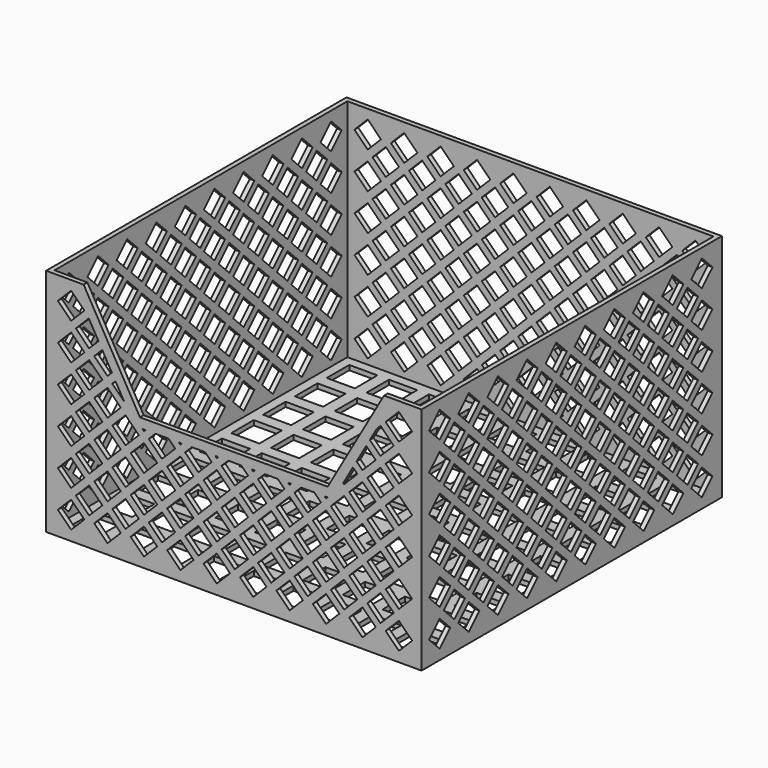
from build123d import *

# Parameters (mm, degrees)
F0_W      = 254
F0_H      = 254
F1_DEPTH  = 3.175
F2_W      = 254
F2_H      = 254
F2_W_2    = 247.65
F2_H_2    = 247.65
F3_DEPTH  = 152.4
F5_DEPTH  = 3.175
F7_DEPTH  = 254.001
F9_DEPTH  = 254.001
F11_DEPTH = 254.001
F13_DEPTH = 254.001
F15_DEPTH = 3.175
F16_W     = 19.05
F16_H     = 19.05
F17_DEPTH = 3.176


with BuildPart() as f1:
    # F0 (on Top) → F1 (new body)
    with BuildSketch(Plane.XY):
        Rectangle(F0_W, F0_H)
    extrude(amount=F1_DEPTH)

    # F2 (on face) → F3 (join)
    with BuildSketch(Plane.XY.offset(3.175)):
        Rectangle(F2_W, F2_H)
        Rectangle(F2_W_2, F2_H_2, mode=Mode.SUBTRACT)
    extrude(amount=F3_DEPTH)

    # F4 (on face) → F5 (cut, through all)
    with BuildSketch(Plane.XZ.offset(127)):
        Polygon((-63.5, 88.9), (0, 88.9), (63.5, 88.9), (101.6, 155.575), (0, 155.575), (-101.6, 155.575), align=None)
    extrude(amount=-F5_DEPTH, mode=Mode.SUBTRACT)

    # F6 (on face) → F7 (cut, through all)
    with BuildSketch(Plane.YZ.offset(127)):
        Polygon((-102.689488, 140.244744), (-111.669744, 149.225), (-120.65, 140.244744), (-111.669744, 131.264488), align=None)
        Polygon((-111.669744, 124.333), (-120.65, 115.352744), (-111.669744, 106.372488), (-102.689488, 115.352744), align=None)
        Polygon((-111.669744, 99.441), (-120.65, 90.460744), (-111.669744, 81.480488), (-102.689488, 90.460744), align=None)
        Polygon((-111.669744, 74.549), (-120.65, 65.568744), (-111.669744, 56.588488), (-102.689488, 65.568744), align=None)
        Polygon((-111.669744, 49.657), (-120.65, 40.676744), (-111.669744, 31.696488), (-102.689488, 40.676744), align=None)
        Polygon((-111.669744, 24.765), (-120.65, 15.784744), (-111.669744, 6.804488), (-102.689488, 15.784744), align=None)
        Polygon((-87.031744, 149.225), (-96.012, 140.244744), (-87.031744, 131.264488), (-78.051488, 140.244744), align=None)
        Polygon((-87.031744, 124.333), (-96.012, 115.352744), (-87.031744, 106.372488), (-78.051488, 115.352744), align=None)
        Polygon((-87.031744, 99.441), (-96.012, 90.460744), (-87.031744, 81.480488), (-78.051488, 90.460744), align=None)
        Polygon((-87.031744, 74.549), (-96.012, 65.568744), (-87.031744, 56.588488), (-78.051488, 65.568744), align=None)
        Polygon((-87.031744, 49.657), (-96.012, 40.676744), (-87.031744, 31.696488), (-78.051488, 40.676744), align=None)
        Polygon((-87.031744, 24.765), (-96.012, 15.784744), (-87.031744, 6.804488), (-78.051488, 15.784744), align=None)
        Polygon((-62.393744, 149.225), (-71.374, 140.244744), (-62.393744, 131.264488), (-53.413488, 140.244744), align=None)
        Polygon((-62.393744, 124.333), (-71.374, 115.352744), (-62.393744, 106.372488), (-53.413488, 115.352744), align=None)
        Polygon((-62.393744, 99.441), (-71.374, 90.460744), (-62.393744, 81.480488), (-53.413488, 90.460744), align=None)
        Polygon((-62.393744, 74.549), (-71.374, 65.568744), (-62.393744, 56.588488), (-53.413488, 65.568744), align=None)
        Polygon((-62.393744, 49.657), (-71.374, 40.676744), (-62.393744, 31.696488), (-53.413488, 40.676744), align=None)
        Polygon((-62.393744, 24.765), (-71.374, 15.784744), (-62.393744, 6.804488), (-53.413488, 15.784744), align=None)
        Polygon((-37.755744, 149.225), (-46.736, 140.244744), (-37.755744, 131.264488), (-28.775488, 140.244744), align=None)
        Polygon((-37.755744, 124.333), (-46.736, 115.352744), (-37.755744, 106.372488), (-28.775488, 115.352744), align=None)
        Polygon((-37.755744, 99.441), (-46.736, 90.460744), (-37.755744, 81.480488), (-28.775488, 90.460744), align=None)
        Polygon((-37.755744, 74.549), (-46.736, 65.568744), (-37.755744, 56.588488), (-28.775488, 65.568744), align=None)
        Polygon((-37.755744, 49.657), (-46.736, 40.676744), (-37.755744, 31.696488), (-28.775488, 40.676744), align=None)
        Polygon((-37.755744, 24.765), (-46.736, 15.784744), (-37.755744, 6.804488), (-28.775488, 15.784744), align=None)
        Polygon((-13.117744, 149.225), (-22.098, 140.244744), (-13.117744, 131.264488), (-4.137488, 140.244744), align=None)
        Polygon((-13.117744, 124.333), (-22.098, 115.352744), (-13.117744, 106.372488), (-4.137488, 115.352744), align=None)
        Polygon((-13.117744, 99.441), (-22.098, 90.460744), (-13.117744, 81.480488), (-4.137488, 90.460744), align=None)
        Polygon((-13.117744, 74.549), (-22.098, 65.568744), (-13.117744, 56.588488), (-4.137488, 65.568744), align=None)
        Polygon((-13.117744, 49.657), (-22.098, 40.676744), (-13.117744, 31.696488), (-4.137488, 40.676744), align=None)
        Polygon((-13.117744, 24.765), (-22.098, 15.784744), (-13.117744, 6.804488), (-4.137488, 15.784744), align=None)
        Polygon((11.520256, 149.225), (2.54, 140.244744), (11.520256, 131.264488), (20.500512, 140.244744), align=None)
        Polygon((11.520256, 124.333), (2.54, 115.352744), (11.520256, 106.372488), (20.500512, 115.352744), align=None)
        Polygon((11.520256, 99.441), (2.54, 90.460744), (11.520256, 81.480488), (20.500512, 90.460744), align=None)
        Polygon((11.520256, 74.549), (2.54, 65.568744), (11.520256, 56.588488), (20.500512, 65.568744), align=None)
        Polygon((11.520256, 49.657), (2.54, 40.676744), (11.520256, 31.696488), (20.500512, 40.676744), align=None)
        Polygon((11.520256, 24.765), (2.54, 15.784744), (11.520256, 6.804488), (20.500512, 15.784744), align=None)
        Polygon((36.158256, 149.225), (27.178, 140.244744), (36.158256, 131.264488), (45.138512, 140.244744), align=None)
        Polygon((36.158256, 124.333), (27.178, 115.352744), (36.158256, 106.372488), (45.138512, 115.352744), align=None)
        Polygon((36.158256, 99.441), (27.178, 90.460744), (36.158256, 81.480488), (45.138512, 90.460744), align=None)
        Polygon((36.158256, 74.549), (27.178, 65.568744), (36.158256, 56.588488), (45.138512, 65.568744), align=None)
        Polygon((36.158256, 49.657), (27.178, 40.676744), (36.158256, 31.696488), (45.138512, 40.676744), align=None)
        Polygon((36.158256, 24.765), (27.178, 15.784744), (36.158256, 6.804488), (45.138512, 15.784744), align=None)
        Polygon((60.796256, 149.225), (51.816, 140.244744), (60.796256, 131.264488), (69.776512, 140.244744), align=None)
        Polygon((60.796256, 124.333), (51.816, 115.352744), (60.796256, 106.372488), (69.776512, 115.352744), align=None)
        Polygon((60.796256, 99.441), (51.816, 90.460744), (60.796256, 81.480488), (69.776512, 90.460744), align=None)
        Polygon((60.796256, 74.549), (51.816, 65.568744), (60.796256, 56.588488), (69.776512, 65.568744), align=None)
        Polygon((60.796256, 49.657), (51.816, 40.676744), (60.796256, 31.696488), (69.776512, 40.676744), align=None)
        Polygon((60.796256, 24.765), (51.816, 15.784744), (60.796256, 6.804488), (69.776512, 15.784744), align=None)
        Polygon((85.434256, 149.225), (76.454, 140.244744), (85.434256, 131.264488), (94.414512, 140.244744), align=None)
        Polygon((85.434256, 124.333), (76.454, 115.352744), (85.434256, 106.372488), (94.414512, 115.352744), align=None)
        Polygon((85.434256, 99.441), (76.454, 90.460744), (85.434256, 81.480488), (94.414512, 90.460744), align=None)
        Polygon((85.434256, 74.549), (76.454, 65.568744), (85.434256, 56.588488), (94.414512, 65.568744), align=None)
        Polygon((85.434256, 49.657), (76.454, 40.676744), (85.434256, 31.696488), (94.414512, 40.676744), align=None)
        Polygon((85.434256, 24.765), (76.454, 15.784744), (85.434256, 6.804488), (94.414512, 15.784744), align=None)
        Polygon((110.072256, 149.225), (101.092, 140.244744), (110.072256, 131.264488), (119.052512, 140.244744), align=None)
        Polygon((110.072256, 124.333), (101.092, 115.352744), (110.072256, 106.372488), (119.052512, 115.352744), align=None)
        Polygon((110.072256, 99.441), (101.092, 90.460744), (110.072256, 81.480488), (119.052512, 90.460744), align=None)
        Polygon((110.072256, 74.549), (101.092, 65.568744), (110.072256, 56.588488), (119.052512, 65.568744), align=None)
        Polygon((110.072256, 49.657), (101.092, 40.676744), (110.072256, 31.696488), (119.052512, 40.676744), align=None)
        Polygon((110.072256, 24.765), (101.092, 15.784744), (110.072256, 6.804488), (119.052512, 15.784744), align=None)
    extrude(amount=-F7_DEPTH, mode=Mode.SUBTRACT)

    # F8 (on face) → F9 (cut, through all)
    with BuildSketch(Plane(origin=(0, 127, 0), x_dir=(-1, 0, 0), z_dir=(0, 1, 0))):
        Polygon((-90.243488, 127.798744), (-99.223744, 136.779), (-108.204, 127.798744), (-99.223744, 118.818488), align=None)
        Polygon((-99.223744, 93.926488), (-90.243488, 102.906744), (-99.223744, 111.887), (-108.204, 102.906744), align=None)
        Polygon((-99.223744, 69.034488), (-90.243488, 78.014744), (-99.223744, 86.995), (-108.204, 78.014744), align=None)
        Polygon((-99.223744, 44.142488), (-90.243488, 53.122744), (-99.223744, 62.103), (-108.204, 53.122744), align=None)
        Polygon((-99.223744, 19.250488), (-90.243488, 28.230744), (-99.223744, 37.211), (-108.204, 28.230744), align=None)
        Polygon((-74.585744, 118.818488), (-65.605488, 127.798744), (-74.585744, 136.779), (-83.566, 127.798744), align=None)
        Polygon((-74.585744, 93.926488), (-65.605488, 102.906744), (-74.585744, 111.887), (-83.566, 102.906744), align=None)
        Polygon((-74.585744, 69.034488), (-65.605488, 78.014744), (-74.585744, 86.995), (-83.566, 78.014744), align=None)
        Polygon((-74.585744, 44.142488), (-65.605488, 53.122744), (-74.585744, 62.103), (-83.566, 53.122744), align=None)
        Polygon((-74.585744, 19.250488), (-65.605488, 28.230744), (-74.585744, 37.211), (-83.566, 28.230744), align=None)
        Polygon((-49.947744, 118.818488), (-40.967488, 127.798744), (-49.947744, 136.779), (-58.928, 127.798744), align=None)
        Polygon((-49.947744, 93.926488), (-40.967488, 102.906744), (-49.947744, 111.887), (-58.928, 102.906744), align=None)
        Polygon((-49.947744, 69.034488), (-40.967488, 78.014744), (-49.947744, 86.995), (-58.928, 78.014744), align=None)
        Polygon((-49.947744, 44.142488), (-40.967488, 53.122744), (-49.947744, 62.103), (-58.928, 53.122744), align=None)
        Polygon((-49.947744, 19.250488), (-40.967488, 28.230744), (-49.947744, 37.211), (-58.928, 28.230744), align=None)
        Polygon((-25.309744, 118.818488), (-16.329488, 127.798744), (-25.309744, 136.779), (-34.29, 127.798744), align=None)
        Polygon((-25.309744, 93.926488), (-16.329488, 102.906744), (-25.309744, 111.887), (-34.29, 102.906744), align=None)
        Polygon((-25.309744, 69.034488), (-16.329488, 78.014744), (-25.309744, 86.995), (-34.29, 78.014744), align=None)
        Polygon((-25.309744, 44.142488), (-16.329488, 53.122744), (-25.309744, 62.103), (-34.29, 53.122744), align=None)
        Polygon((-25.309744, 19.250488), (-16.329488, 28.230744), (-25.309744, 37.211), (-34.29, 28.230744), align=None)
        Polygon((-0.671744, 118.818488), (8.308512, 127.798744), (-0.671744, 136.779), (-9.652, 127.798744), align=None)
        Polygon((-0.671744, 93.926488), (8.308512, 102.906744), (-0.671744, 111.887), (-9.652, 102.906744), align=None)
        Polygon((-0.671744, 69.034488), (8.308512, 78.014744), (-0.671744, 86.995), (-9.652, 78.014744), align=None)
        Polygon((-0.671744, 44.142488), (8.308512, 53.122744), (-0.671744, 62.103), (-9.652, 53.122744), align=None)
        Polygon((-0.671744, 19.250488), (8.308512, 28.230744), (-0.671744, 37.211), (-9.652, 28.230744), align=None)
        Polygon((23.966256, 118.818488), (32.946512, 127.798744), (23.966256, 136.779), (14.986, 127.798744), align=None)
        Polygon((23.966256, 93.926488), (32.946512, 102.906744), (23.966256, 111.887), (14.986, 102.906744), align=None)
        Polygon((23.966256, 69.034488), (32.946512, 78.014744), (23.966256, 86.995), (14.986, 78.014744), align=None)
        Polygon((23.966256, 44.142488), (32.946512, 53.122744), (23.966256, 62.103), (14.986, 53.122744), align=None)
        Polygon((23.966256, 19.250488), (32.946512, 28.230744), (23.966256, 37.211), (14.986, 28.230744), align=None)
        Polygon((48.604256, 118.818488), (57.584512, 127.798744), (48.604256, 136.779), (39.624, 127.798744), align=None)
        Polygon((48.604256, 93.926488), (57.584512, 102.906744), (48.604256, 111.887), (39.624, 102.906744), align=None)
        Polygon((48.604256, 69.034488), (57.584512, 78.014744), (48.604256, 86.995), (39.624, 78.014744), align=None)
        Polygon((48.604256, 44.142488), (57.584512, 53.122744), (48.604256, 62.103), (39.624, 53.122744), align=None)
        Polygon((48.604256, 19.250488), (57.584512, 28.230744), (48.604256, 37.211), (39.624, 28.230744), align=None)
        Polygon((73.242256, 118.818488), (82.222512, 127.798744), (73.242256, 136.779), (64.262, 127.798744), align=None)
        Polygon((73.242256, 93.926488), (82.222512, 102.906744), (73.242256, 111.887), (64.262, 102.906744), align=None)
        Polygon((73.242256, 69.034488), (82.222512, 78.014744), (73.242256, 86.995), (64.262, 78.014744), align=None)
        Polygon((73.242256, 44.142488), (82.222512, 53.122744), (73.242256, 62.103), (64.262, 53.122744), align=None)
        Polygon((73.242256, 19.250488), (82.222512, 28.230744), (73.242256, 37.211), (64.262, 28.230744), align=None)
        Polygon((97.880256, 118.818488), (106.860512, 127.798744), (97.880256, 136.779), (88.9, 127.798744), align=None)
        Polygon((97.880256, 93.926488), (106.860512, 102.906744), (97.880256, 111.887), (88.9, 102.906744), align=None)
        Polygon((97.880256, 69.034488), (106.860512, 78.014744), (97.880256, 86.995), (88.9, 78.014744), align=None)
        Polygon((97.880256, 44.142488), (106.860512, 53.122744), (97.880256, 62.103), (88.9, 53.122744), align=None)
        Polygon((97.880256, 19.250488), (106.860512, 28.230744), (97.880256, 37.211), (88.9, 28.230744), align=None)
    extrude(amount=-F9_DEPTH, mode=Mode.SUBTRACT)

    # F10 (on face) → F11 (cut, through all)
    with BuildSketch(Plane(origin=(0, 127, 0), x_dir=(-1, 0, 0), z_dir=(0, 1, 0))):
        Polygon((-102.689488, 140.244744), (-111.669744, 149.225), (-120.65, 140.244744), (-111.669744, 131.264488), align=None)
        Polygon((-120.65, 115.352744), (-111.669744, 106.372488), (-102.689488, 115.352744), (-111.669744, 124.333), align=None)
        Polygon((-120.65, 90.460744), (-111.669744, 81.480488), (-102.689488, 90.460744), (-111.669744, 99.441), align=None)
        Polygon((-120.65, 65.568744), (-111.669744, 56.588488), (-102.689488, 65.568744), (-111.669744, 74.549), align=None)
        Polygon((-120.65, 40.676744), (-111.669744, 31.696488), (-102.689488, 40.676744), (-111.669744, 49.657), align=None)
        Polygon((-120.65, 15.784744), (-111.669744, 6.804488), (-102.689488, 15.784744), (-111.669744, 24.765), align=None)
        Polygon((-96.012, 140.244744), (-87.031744, 131.264488), (-78.051488, 140.244744), (-87.031744, 149.225), align=None)
        Polygon((-96.012, 115.352744), (-87.031744, 106.372488), (-78.051488, 115.352744), (-87.031744, 124.333), align=None)
        Polygon((-96.012, 90.460744), (-87.031744, 81.480488), (-78.051488, 90.460744), (-87.031744, 99.441), align=None)
        Polygon((-96.012, 65.568744), (-87.031744, 56.588488), (-78.051488, 65.568744), (-87.031744, 74.549), align=None)
        Polygon((-96.012, 40.676744), (-87.031744, 31.696488), (-78.051488, 40.676744), (-87.031744, 49.657), align=None)
        Polygon((-96.012, 15.784744), (-87.031744, 6.804488), (-78.051488, 15.784744), (-87.031744, 24.765), align=None)
        Polygon((-71.374, 140.244744), (-62.393744, 131.264488), (-53.413488, 140.244744), (-62.393744, 149.225), align=None)
        Polygon((-71.374, 115.352744), (-62.393744, 106.372488), (-53.413488, 115.352744), (-62.393744, 124.333), align=None)
        Polygon((-71.374, 90.460744), (-62.393744, 81.480488), (-53.413488, 90.460744), (-62.393744, 99.441), align=None)
        Polygon((-71.374, 65.568744), (-62.393744, 56.588488), (-53.413488, 65.568744), (-62.393744, 74.549), align=None)
        Polygon((-71.374, 40.676744), (-62.393744, 31.696488), (-53.413488, 40.676744), (-62.393744, 49.657), align=None)
        Polygon((-71.374, 15.784744), (-62.393744, 6.804488), (-53.413488, 15.784744), (-62.393744, 24.765), align=None)
        Polygon((-46.736, 140.244744), (-37.755744, 131.264488), (-28.775488, 140.244744), (-37.755744, 149.225), align=None)
        Polygon((-46.736, 115.352744), (-37.755744, 106.372488), (-28.775488, 115.352744), (-37.755744, 124.333), align=None)
        Polygon((-46.736, 90.460744), (-37.755744, 81.480488), (-28.775488, 90.460744), (-37.755744, 99.441), align=None)
        Polygon((-46.736, 65.568744), (-37.755744, 56.588488), (-28.775488, 65.568744), (-37.755744, 74.549), align=None)
        Polygon((-46.736, 40.676744), (-37.755744, 31.696488), (-28.775488, 40.676744), (-37.755744, 49.657), align=None)
        Polygon((-46.736, 15.784744), (-37.755744, 6.804488), (-28.775488, 15.784744), (-37.755744, 24.765), align=None)
        Polygon((-22.098, 140.244744), (-13.117744, 131.264488), (-4.137488, 140.244744), (-13.117744, 149.225), align=None)
        Polygon((-22.098, 115.352744), (-13.117744, 106.372488), (-4.137488, 115.352744), (-13.117744, 124.333), align=None)
        Polygon((-22.098, 90.460744), (-13.117744, 81.480488), (-4.137488, 90.460744), (-13.117744, 99.441), align=None)
        Polygon((-22.098, 65.568744), (-13.117744, 56.588488), (-4.137488, 65.568744), (-13.117744, 74.549), align=None)
        Polygon((-22.098, 40.676744), (-13.117744, 31.696488), (-4.137488, 40.676744), (-13.117744, 49.657), align=None)
        Polygon((-22.098, 15.784744), (-13.117744, 6.804488), (-4.137488, 15.784744), (-13.117744, 24.765), align=None)
        Polygon((2.54, 140.244744), (11.520256, 131.264488), (20.500512, 140.244744), (11.520256, 149.225), align=None)
        Polygon((2.54, 115.352744), (11.520256, 106.372488), (20.500512, 115.352744), (11.520256, 124.333), align=None)
        Polygon((2.54, 90.460744), (11.520256, 81.480488), (20.500512, 90.460744), (11.520256, 99.441), align=None)
        Polygon((2.54, 65.568744), (11.520256, 56.588488), (20.500512, 65.568744), (11.520256, 74.549), align=None)
        Polygon((2.54, 40.676744), (11.520256, 31.696488), (20.500512, 40.676744), (11.520256, 49.657), align=None)
        Polygon((2.54, 15.784744), (11.520256, 6.804488), (20.500512, 15.784744), (11.520256, 24.765), align=None)
        Polygon((27.178, 140.244744), (36.158256, 131.264488), (45.138512, 140.244744), (36.158256, 149.225), align=None)
        Polygon((27.178, 115.352744), (36.158256, 106.372488), (45.138512, 115.352744), (36.158256, 124.333), align=None)
        Polygon((27.178, 90.460744), (36.158256, 81.480488), (45.138512, 90.460744), (36.158256, 99.441), align=None)
        Polygon((27.178, 65.568744), (36.158256, 56.588488), (45.138512, 65.568744), (36.158256, 74.549), align=None)
        Polygon((27.178, 40.676744), (36.158256, 31.696488), (45.138512, 40.676744), (36.158256, 49.657), align=None)
        Polygon((27.178, 15.784744), (36.158256, 6.804488), (45.138512, 15.784744), (36.158256, 24.765), align=None)
        Polygon((51.816, 140.244744), (60.796256, 131.264488), (69.776512, 140.244744), (60.796256, 149.225), align=None)
        Polygon((51.816, 115.352744), (60.796256, 106.372488), (69.776512, 115.352744), (60.796256, 124.333), align=None)
        Polygon((51.816, 90.460744), (60.796256, 81.480488), (69.776512, 90.460744), (60.796256, 99.441), align=None)
        Polygon((51.816, 65.568744), (60.796256, 56.588488), (69.776512, 65.568744), (60.796256, 74.549), align=None)
        Polygon((51.816, 40.676744), (60.796256, 31.696488), (69.776512, 40.676744), (60.796256, 49.657), align=None)
        Polygon((51.816, 15.784744), (60.796256, 6.804488), (69.776512, 15.784744), (60.796256, 24.765), align=None)
        Polygon((76.454, 140.244744), (85.434256, 131.264488), (94.414512, 140.244744), (85.434256, 149.225), align=None)
        Polygon((76.454, 115.352744), (85.434256, 106.372488), (94.414512, 115.352744), (85.434256, 124.333), align=None)
        Polygon((76.454, 90.460744), (85.434256, 81.480488), (94.414512, 90.460744), (85.434256, 99.441), align=None)
        Polygon((76.454, 65.568744), (85.434256, 56.588488), (94.414512, 65.568744), (85.434256, 74.549), align=None)
        Polygon((76.454, 40.676744), (85.434256, 31.696488), (94.414512, 40.676744), (85.434256, 49.657), align=None)
        Polygon((76.454, 15.784744), (85.434256, 6.804488), (94.414512, 15.784744), (85.434256, 24.765), align=None)
        Polygon((101.092, 140.244744), (110.072256, 131.264488), (119.052512, 140.244744), (110.072256, 149.225), align=None)
        Polygon((101.092, 115.352744), (110.072256, 106.372488), (119.052512, 115.352744), (110.072256, 124.333), align=None)
        Polygon((101.092, 90.460744), (110.072256, 81.480488), (119.052512, 90.460744), (110.072256, 99.441), align=None)
        Polygon((101.092, 65.568744), (110.072256, 56.588488), (119.052512, 65.568744), (110.072256, 74.549), align=None)
        Polygon((101.092, 40.676744), (110.072256, 31.696488), (119.052512, 40.676744), (110.072256, 49.657), align=None)
        Polygon((101.092, 15.784744), (110.072256, 6.804488), (119.052512, 15.784744), (110.072256, 24.765), align=None)
    extrude(amount=-F11_DEPTH, mode=Mode.SUBTRACT)

    # F12 (on face) → F13 (cut, through all)
    with BuildSketch(Plane.YZ.offset(127)):
        Polygon((-90.243488, 127.798744), (-99.223744, 136.779), (-108.204, 127.798744), (-99.223744, 118.818488), align=None)
        Polygon((-99.223744, 111.887), (-108.204, 102.906744), (-99.223744, 93.926488), (-90.243488, 102.906744), align=None)
        Polygon((-99.223744, 86.995), (-108.204, 78.014744), (-99.223744, 69.034488), (-90.243488, 78.014744), align=None)
        Polygon((-99.223744, 62.103), (-108.204, 53.122744), (-99.223744, 44.142488), (-90.243488, 53.122744), align=None)
        Polygon((-99.223744, 37.211), (-108.204, 28.230744), (-99.223744, 19.250488), (-90.243488, 28.230744), align=None)
        Polygon((-74.585744, 136.779), (-83.566, 127.798744), (-74.585744, 118.818488), (-65.605488, 127.798744), align=None)
        Polygon((-74.585744, 111.887), (-83.566, 102.906744), (-74.585744, 93.926488), (-65.605488, 102.906744), align=None)
        Polygon((-74.585744, 86.995), (-83.566, 78.014744), (-74.585744, 69.034488), (-65.605488, 78.014744), align=None)
        Polygon((-74.585744, 62.103), (-83.566, 53.122744), (-74.585744, 44.142488), (-65.605488, 53.122744), align=None)
        Polygon((-74.585744, 37.211), (-83.566, 28.230744), (-74.585744, 19.250488), (-65.605488, 28.230744), align=None)
        Polygon((-49.947744, 136.779), (-58.928, 127.798744), (-49.947744, 118.818488), (-40.967488, 127.798744), align=None)
        Polygon((-49.947744, 111.887), (-58.928, 102.906744), (-49.947744, 93.926488), (-40.967488, 102.906744), align=None)
        Polygon((-49.947744, 86.995), (-58.928, 78.014744), (-49.947744, 69.034488), (-40.967488, 78.014744), align=None)
        Polygon((-49.947744, 62.103), (-58.928, 53.122744), (-49.947744, 44.142488), (-40.967488, 53.122744), align=None)
        Polygon((-49.947744, 37.211), (-58.928, 28.230744), (-49.947744, 19.250488), (-40.967488, 28.230744), align=None)
        Polygon((-25.309744, 136.779), (-34.29, 127.798744), (-25.309744, 118.818488), (-16.329488, 127.798744), align=None)
        Polygon((-25.309744, 111.887), (-34.29, 102.906744), (-25.309744, 93.926488), (-16.329488, 102.906744), align=None)
        Polygon((-25.309744, 86.995), (-34.29, 78.014744), (-25.309744, 69.034488), (-16.329488, 78.014744), align=None)
        Polygon((-25.309744, 62.103), (-34.29, 53.122744), (-25.309744, 44.142488), (-16.329488, 53.122744), align=None)
        Polygon((-25.309744, 37.211), (-34.29, 28.230744), (-25.309744, 19.250488), (-16.329488, 28.230744), align=None)
        Polygon((-0.671744, 136.779), (-9.652, 127.798744), (-0.671744, 118.818488), (8.308512, 127.798744), align=None)
        Polygon((-0.671744, 111.887), (-9.652, 102.906744), (-0.671744, 93.926488), (8.308512, 102.906744), align=None)
        Polygon((-0.671744, 86.995), (-9.652, 78.014744), (-0.671744, 69.034488), (8.308512, 78.014744), align=None)
        Polygon((-0.671744, 62.103), (-9.652, 53.122744), (-0.671744, 44.142488), (8.308512, 53.122744), align=None)
        Polygon((-0.671744, 37.211), (-9.652, 28.230744), (-0.671744, 19.250488), (8.308512, 28.230744), align=None)
        Polygon((23.966256, 136.779), (14.986, 127.798744), (23.966256, 118.818488), (32.946512, 127.798744), align=None)
        Polygon((23.966256, 111.887), (14.986, 102.906744), (23.966256, 93.926488), (32.946512, 102.906744), align=None)
        Polygon((23.966256, 86.995), (14.986, 78.014744), (23.966256, 69.034488), (32.946512, 78.014744), align=None)
        Polygon((23.966256, 62.103), (14.986, 53.122744), (23.966256, 44.142488), (32.946512, 53.122744), align=None)
        Polygon((23.966256, 37.211), (14.986, 28.230744), (23.966256, 19.250488), (32.946512, 28.230744), align=None)
        Polygon((48.604256, 136.779), (39.624, 127.798744), (48.604256, 118.818488), (57.584512, 127.798744), align=None)
        Polygon((48.604256, 111.887), (39.624, 102.906744), (48.604256, 93.926488), (57.584512, 102.906744), align=None)
        Polygon((48.604256, 86.995), (39.624, 78.014744), (48.604256, 69.034488), (57.584512, 78.014744), align=None)
        Polygon((48.604256, 62.103), (39.624, 53.122744), (48.604256, 44.142488), (57.584512, 53.122744), align=None)
        Polygon((48.604256, 37.211), (39.624, 28.230744), (48.604256, 19.250488), (57.584512, 28.230744), align=None)
        Polygon((73.242256, 136.779), (64.262, 127.798744), (73.242256, 118.818488), (82.222512, 127.798744), align=None)
        Polygon((73.242256, 111.887), (64.262, 102.906744), (73.242256, 93.926488), (82.222512, 102.906744), align=None)
        Polygon((73.242256, 86.995), (64.262, 78.014744), (73.242256, 69.034488), (82.222512, 78.014744), align=None)
        Polygon((73.242256, 62.103), (64.262, 53.122744), (73.242256, 44.142488), (82.222512, 53.122744), align=None)
        Polygon((73.242256, 37.211), (64.262, 28.230744), (73.242256, 19.250488), (82.222512, 28.230744), align=None)
        Polygon((97.880256, 136.779), (88.9, 127.798744), (97.880256, 118.818488), (106.860512, 127.798744), align=None)
        Polygon((97.880256, 111.887), (88.9, 102.906744), (97.880256, 93.926488), (106.860512, 102.906744), align=None)
        Polygon((97.880256, 86.995), (88.9, 78.014744), (97.880256, 69.034488), (106.860512, 78.014744), align=None)
        Polygon((97.880256, 62.103), (88.9, 53.122744), (97.880256, 44.142488), (106.860512, 53.122744), align=None)
        Polygon((97.880256, 37.211), (88.9, 28.230744), (97.880256, 19.250488), (106.860512, 28.230744), align=None)
    extrude(amount=-F13_DEPTH, mode=Mode.SUBTRACT)

    # F14 (on face) → F15 (join)
    with BuildSketch(Plane.XZ.offset(127)):
        Polygon((-63.5, 88.9), (-101.6, 155.575), (-107.113344, 155.575), (-107.113344, 152.424518), (-67.185048, 82.55), (67.185048, 82.55), (107.113344, 152.424518), (107.113344, 155.575), (101.6, 155.575), (63.5, 88.9), align=None)
    extrude(amount=-F15_DEPTH)

    # F16 (on face) → F17 (cut, through all)
    with BuildSketch(Plane.XY.offset(3.175)):
        with Locations((-107.95, 107.95)):
            Rectangle(F16_W, F16_H)
        with Locations((-107.95, 81.026)):
            Rectangle(F16_W, F16_H)
        with Locations((-107.95, 54.102)):
            Rectangle(F16_W, F16_H)
        with Locations((-107.95, 27.178)):
            Rectangle(F16_W, F16_H)
        with Locations((-107.95, 0.254)):
            Rectangle(F16_W, F16_H)
        with Locations((-107.95, -26.67)):
            Rectangle(F16_W, F16_H)
        with Locations((-107.95, -53.594)):
            Rectangle(F16_W, F16_H)
        with Locations((-107.95, -80.518)):
            Rectangle(F16_W, F16_H)
        with Locations((-107.95, -107.442)):
            Rectangle(F16_W, F16_H)
        with Locations((-81.026, 107.95)):
            Rectangle(F16_W, F16_H)
        with Locations((-81.026, 81.026)):
            Rectangle(F16_W, F16_H)
        with Locations((-81.026, 54.102)):
            Rectangle(F16_W, F16_H)
        with Locations((-81.026, 27.178)):
            Rectangle(F16_W, F16_H)
        with Locations((-81.026, 0.254)):
            Rectangle(F16_W, F16_H)
        with Locations((-81.026, -26.67)):
            Rectangle(F16_W, F16_H)
        with Locations((-81.026, -53.594)):
            Rectangle(F16_W, F16_H)
        with Locations((-81.026, -80.518)):
            Rectangle(F16_W, F16_H)
        with Locations((-81.026, -107.442)):
            Rectangle(F16_W, F16_H)
        with Locations((-54.102, 107.95)):
            Rectangle(F16_W, F16_H)
        with Locations((-54.102, 81.026)):
            Rectangle(F16_W, F16_H)
        with Locations((-54.102, 54.102)):
            Rectangle(F16_W, F16_H)
        with Locations((-54.102, 27.178)):
            Rectangle(F16_W, F16_H)
        with Locations((-54.102, 0.254)):
            Rectangle(F16_W, F16_H)
        with Locations((-54.102, -26.67)):
            Rectangle(F16_W, F16_H)
        with Locations((-54.102, -53.594)):
            Rectangle(F16_W, F16_H)
        with Locations((-54.102, -80.518)):
            Rectangle(F16_W, F16_H)
        with Locations((-54.102, -107.442)):
            Rectangle(F16_W, F16_H)
        with Locations((-27.178, 107.95)):
            Rectangle(F16_W, F16_H)
        with Locations((-27.178, 81.026)):
            Rectangle(F16_W, F16_H)
        with Locations((-27.178, 54.102)):
            Rectangle(F16_W, F16_H)
        with Locations((-27.178, 27.178)):
            Rectangle(F16_W, F16_H)
        with Locations((-27.178, 0.254)):
            Rectangle(F16_W, F16_H)
        with Locations((-27.178, -26.67)):
            Rectangle(F16_W, F16_H)
        with Locations((-27.178, -53.594)):
            Rectangle(F16_W, F16_H)
        with Locations((-27.178, -80.518)):
            Rectangle(F16_W, F16_H)
        with Locations((-27.178, -107.442)):
            Rectangle(F16_W, F16_H)
        with Locations((-0.254, 107.95)):
            Rectangle(F16_W, F16_H)
        with Locations((-0.254, 81.026)):
            Rectangle(F16_W, F16_H)
        with Locations((-0.254, 54.102)):
            Rectangle(F16_W, F16_H)
        with Locations((-0.254, 27.178)):
            Rectangle(F16_W, F16_H)
        with Locations((-0.254, 0.254)):
            Rectangle(F16_W, F16_H)
        with Locations((-0.254, -26.67)):
            Rectangle(F16_W, F16_H)
        with Locations((-0.254, -53.594)):
            Rectangle(F16_W, F16_H)
        with Locations((-0.254, -80.518)):
            Rectangle(F16_W, F16_H)
        with Locations((-0.254, -107.442)):
            Rectangle(F16_W, F16_H)
        with Locations((26.67, 107.95)):
            Rectangle(F16_W, F16_H)
        with Locations((26.67, 81.026)):
            Rectangle(F16_W, F16_H)
        with Locations((26.67, 54.102)):
            Rectangle(F16_W, F16_H)
        with Locations((26.67, 27.178)):
            Rectangle(F16_W, F16_H)
        with Locations((26.67, 0.254)):
            Rectangle(F16_W, F16_H)
        with Locations((26.67, -26.67)):
            Rectangle(F16_W, F16_H)
        with Locations((26.67, -53.594)):
            Rectangle(F16_W, F16_H)
        with Locations((26.67, -80.518)):
            Rectangle(F16_W, F16_H)
        with Locations((26.67, -107.442)):
            Rectangle(F16_W, F16_H)
        with Locations((53.594, 107.95)):
            Rectangle(F16_W, F16_H)
        with Locations((53.594, 81.026)):
            Rectangle(F16_W, F16_H)
        with Locations((53.594, 54.102)):
            Rectangle(F16_W, F16_H)
        with Locations((53.594, 27.178)):
            Rectangle(F16_W, F16_H)
        with Locations((53.594, 0.254)):
            Rectangle(F16_W, F16_H)
        with Locations((53.594, -26.67)):
            Rectangle(F16_W, F16_H)
        with Locations((53.594, -53.594)):
            Rectangle(F16_W, F16_H)
        with Locations((53.594, -80.518)):
            Rectangle(F16_W, F16_H)
        with Locations((53.594, -107.442)):
            Rectangle(F16_W, F16_H)
        with Locations((80.518, 107.95)):
            Rectangle(F16_W, F16_H)
        with Locations((80.518, 81.026)):
            Rectangle(F16_W, F16_H)
        with Locations((80.518, 54.102)):
            Rectangle(F16_W, F16_H)
        with Locations((80.518, 27.178)):
            Rectangle(F16_W, F16_H)
        with Locations((80.518, 0.254)):
            Rectangle(F16_W, F16_H)
        with Locations((80.518, -26.67)):
            Rectangle(F16_W, F16_H)
        with Locations((80.518, -53.594)):
            Rectangle(F16_W, F16_H)
        with Locations((80.518, -80.518)):
            Rectangle(F16_W, F16_H)
        with Locations((80.518, -107.442)):
            Rectangle(F16_W, F16_H)
        with Locations((107.442, 107.95)):
            Rectangle(F16_W, F16_H)
        with Locations((107.442, 81.026)):
            Rectangle(F16_W, F16_H)
        with Locations((107.442, 54.102)):
            Rectangle(F16_W, F16_H)
        with Locations((107.442, 27.178)):
            Rectangle(F16_W, F16_H)
        with Locations((107.442, 0.254)):
            Rectangle(F16_W, F16_H)
        with Locations((107.442, -26.67)):
            Rectangle(F16_W, F16_H)
        with Locations((107.442, -53.594)):
            Rectangle(F16_W, F16_H)
        with Locations((107.442, -80.518)):
            Rectangle(F16_W, F16_H)
        with Locations((107.442, -107.442)):
            Rectangle(F16_W, F16_H)
    extrude(amount=-F17_DEPTH, mode=Mode.SUBTRACT)


solid = f1.part
